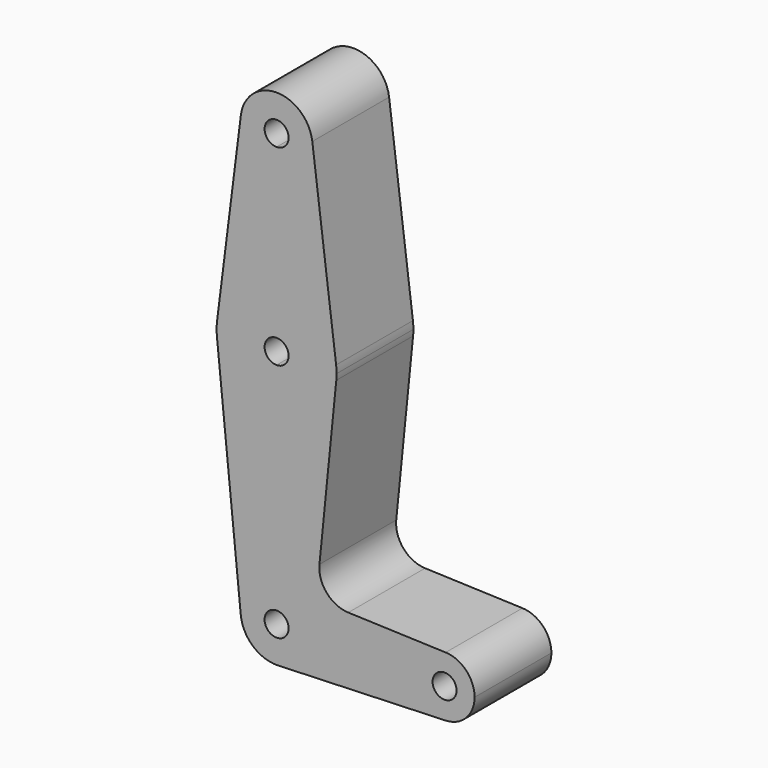
from build123d import *

# Parameters (mm, degrees)
F1_DEPTH = 25.4


with BuildPart() as f1:
    # F0 (on Front) → F1 (new body)
    with BuildSketch(Plane.XZ):
        with BuildLine():
            ThreePointArc((-41.1120045974, 60.4052241132), (-38.8054616332, 52.9144038037), (-31.6617116332, 49.6895991132))
            ThreePointArc((-31.6617116332, 49.6895991132), (-24.9265195424, 52.4794070224), (-22.1367116332, 59.2145991132))
            ThreePointArc((-22.1367116332, 59.2145991132), (-22.155406739, 59.8110823551), (-22.211418669, 60.4052241132))
            ThreePointArc((-22.211418669, 60.4052241132), (-31.6617116332, 68.7395991132), (-41.1120045974, 60.4052241132))
        make_face()
        with BuildLine():
            ThreePointArc((-28.4867116332, 59.2145991132), (-29.4166476029, 56.9695350829), (-31.6617116332, 56.0395991132))
            ThreePointArc((-31.6617116332, 56.0395991132), (-33.9067756635, 61.4596631434), (-28.4867116332, 59.2145991132))
        make_face(mode=Mode.SUBTRACT)
        with BuildLine():
            ThreePointArc((-22.1367116332, 59.2145991132), (-24.9265195424, 52.4794070224), (-31.6617116332, 49.6895991132))
            Line((-31.6617116332, 49.6895991132), (-31.6617116332, 24.2895991132))
            ThreePointArc((-31.6617116332, 24.2895991132), (-21.1613861174, 20.3208491132), (-15.9112233595, 10.3989741132))
            Line((-15.9112233595, 10.3989741132), (-22.211418669, 60.4052241132))
            ThreePointArc((-22.211418669, 60.4052241132), (-22.155406739, 59.8110823551), (-22.1367116332, 59.2145991132))
        make_face()
        with BuildLine():
            Line((-31.6617116332, 24.2895991132), (-31.6617116332, 49.6895991132))
            ThreePointArc((-31.6617116332, 49.6895991132), (-38.8054616332, 52.9144038037), (-41.1120045974, 60.4052241132))
            Line((-41.1120045974, 60.4052241132), (-47.4121999069, 10.3989741132))
            ThreePointArc((-47.4121999069, 10.3989741132), (-42.162037149, 20.3208491132), (-31.6617116332, 24.2895991132))
        make_face()
        with BuildLine():
            ThreePointArc((-15.9112233595, 10.3989741132), (-21.1613861174, 20.3208491132), (-31.6617116332, 24.2895991132))
            Line((-31.6617116332, 24.2895991132), (-31.6617116332, 11.5895991132))
            ThreePointArc((-31.6617116332, 11.5895991132), (-29.4166476029, 10.6596631434), (-28.4867116332, 8.4145991132))
            ThreePointArc((-28.4867116332, 8.4145991132), (-29.4166476029, 6.1695350829), (-31.6617116332, 5.2395991132))
            Line((-31.6617116332, 5.2395991132), (-31.6617116332, -7.4604008868))
            ThreePointArc((-31.6617116332, -7.4604008868), (-21.0124378904, -3.3586159851), (-15.8662860691, 6.8270991132))
            ThreePointArc((-15.8662860691, 6.8270991132), (-15.8066177226, 7.6198525591), (-15.7867116332, 8.4145991132))
            ThreePointArc((-15.7867116332, 8.4145991132), (-15.8178701428, 9.4087378498), (-15.9112233595, 10.3989741132))
        make_face()
        with BuildLine():
            Line((-31.6617116332, 11.5895991132), (-31.6617116332, 24.2895991132))
            ThreePointArc((-31.6617116332, 24.2895991132), (-42.162037149, 20.3208491132), (-47.4121999069, 10.3989741132))
            ThreePointArc((-47.4121999069, 10.3989741132), (-47.5354554487, 8.6143045999), (-47.4571371973, 6.8270991132))
            ThreePointArc((-47.4571371973, 6.8270991132), (-42.310985376, -3.3586159851), (-31.6617116332, -7.4604008868))
            Line((-31.6617116332, -7.4604008868), (-31.6617116332, 5.2395991132))
            ThreePointArc((-31.6617116332, 5.2395991132), (-34.8367116332, 8.4145991132), (-31.6617116332, 11.5895991132))
        make_face()
        with BuildLine():
            ThreePointArc((-31.6617116332, -7.4604008868), (-42.310985376, -3.3586159851), (-47.4571371973, 6.8270991132))
            Line((-47.4571371973, 6.8270991132), (-41.1389669716, -56.0379008868))
            ThreePointArc((-41.1389669716, -56.0379008868), (-38.7256406922, -48.6958366411), (-31.6617116332, -45.5604008868))
            Line((-31.6617116332, -45.5604008868), (-31.6617116332, -7.4604008868))
        make_face()
        with BuildLine():
            ThreePointArc((-15.8662860691, 6.8270991132), (-21.0124378904, -3.3586159851), (-31.6617116332, -7.4604008868))
            Line((-31.6617116332, -7.4604008868), (-31.6617116332, -45.5604008868))
            ThreePointArc((-31.6617116332, -45.5604008868), (-24.9265195424, -48.350208796), (-22.1367116332, -55.0854008868))
            Line((-22.1367116332, -55.0854008868), (4.8507883668, -55.0854008868))
            ThreePointArc((4.8507883668, -55.0854008868), (7.2767655853, -49.3733939821), (13.0717705097, -47.1529646832))
            Line((13.0717705097, -47.1529646832), (-12.6941116327, -46.232167176))
            ThreePointArc((-12.6941116327, -46.232167176), (-18.4005117359, -43.514041737), (-20.3205250409, -37.4920190744))
            Line((-20.3205250409, -37.4920190744), (-15.8662860691, 6.8270991132))
        make_face()
        with BuildLine():
            ThreePointArc((-31.6617116332, -45.5604008868), (-38.7256406922, -48.6958366411), (-41.1389669716, -56.0379008868))
            ThreePointArc((-41.1389669716, -56.0379008868), (-37.9240950148, -62.2623207959), (-31.3215330618, -64.6043243312))
            ThreePointArc((-31.3215330618, -64.6043243312), (-24.8073033476, -61.6992282246), (-22.1367116332, -55.0854008868))
            Line((-22.1367116332, -55.0854008868), (-28.4867116332, -55.0854008868))
            ThreePointArc((-28.4867116332, -55.0854008868), (-33.9067756635, -57.3304649171), (-31.6617116332, -51.9104008868))
            Line((-31.6617116332, -51.9104008868), (-31.6617116332, -45.5604008868))
        make_face()
        with BuildLine():
            ThreePointArc((-22.1367116332, -55.0854008868), (-24.8073033476, -61.6992282246), (-31.3215330618, -64.6043243312))
            Line((-31.3215330618, -64.6043243312), (13.0717705097, -63.0178370905))
            ThreePointArc((13.0717705097, -63.0178370905), (7.2767655853, -60.7974077915), (4.8507883668, -55.0854008868))
            Line((4.8507883668, -55.0854008868), (-22.1367116332, -55.0854008868))
        make_face()
        with BuildLine():
            ThreePointArc((4.8507883668, -55.0854008868), (7.2767655853, -60.7974077915), (13.0717705097, -63.0178370905))
            ThreePointArc((13.0717705097, -63.0178370905), (18.5002952715, -60.5969236683), (20.7257883668, -55.0854008868))
            ThreePointArc((20.7257883668, -55.0854008868), (18.5002952715, -49.5738781054), (13.0717705097, -47.1529646832))
            ThreePointArc((13.0717705097, -47.1529646832), (7.2767655853, -49.3733939821), (4.8507883668, -55.0854008868))
        make_face()
        with BuildLine():
            ThreePointArc((15.9632883668, -55.0854008868), (12.7882883668, -58.2604008868), (9.6132883668, -55.0854008868))
            ThreePointArc((9.6132883668, -55.0854008868), (12.7882883668, -51.9104008868), (15.9632883668, -55.0854008868))
        make_face(mode=Mode.SUBTRACT)
        with BuildLine():
            ThreePointArc((-22.1367116332, -55.0854008868), (-24.9265195424, -48.350208796), (-31.6617116332, -45.5604008868))
            Line((-31.6617116332, -45.5604008868), (-31.6617116332, -51.9104008868))
            ThreePointArc((-31.6617116332, -51.9104008868), (-29.4166476029, -52.8403368566), (-28.4867116332, -55.0854008868))
            Line((-28.4867116332, -55.0854008868), (-22.1367116332, -55.0854008868))
        make_face()
    extrude(amount=F1_DEPTH)


solid = f1.part
